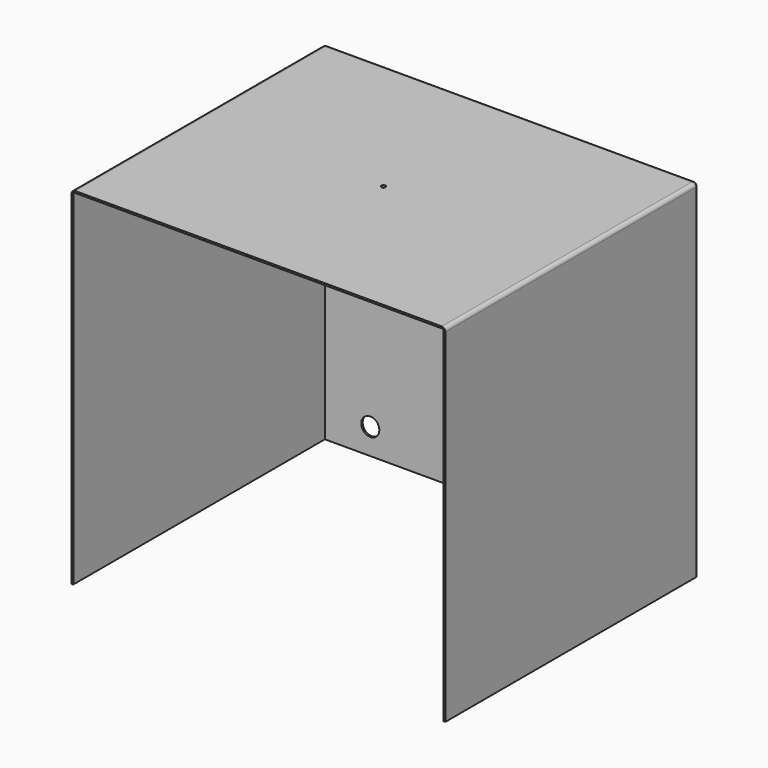
from build123d import *

# Parameters (mm, degrees)
F0_W     = 517
F0_H     = 437.351066
F1_DEPTH = 480
F2_T     = -2.5
F3_R     = 5
F5_R     = 15
F5_R_2   = 12.5
F6_DEPTH = 11.75
F7_R     = 3
F8_DEPTH = 12.5


with BuildPart() as f1:
    # F0 (on Top) → F1 (new body)
    with BuildSketch(Plane.XY):
        with Locations((154.318035, -9.831567)):
            Rectangle(F0_W, F0_H)
    extrude(amount=F1_DEPTH)

    # F2
    f2_openings = [f1.faces().sort_by_distance(p)[0] for p in [
        (154.318035, -228.5071, 240),
        (154.318035, -9.831567, 0),
    ]]
    offset(amount=F2_T, openings=f2_openings)

    # F3
    f3_edges = [f1.edges().sort_by_distance(p)[0] for p in [
        (412.818035, -9.831567, 480),
        (-104.181965, -9.831567, 480),
        (412.818035, 208.843966, 240),
        (154.318035, 208.843966, 480),
        (-104.181965, 208.843966, 240),
    ]]
    fillet(f3_edges, radius=F3_R)

    # F5 (on face) → F6 (cut)
    with BuildSketch(Plane(origin=(0, 208.843966, 0), x_dir=(-1, 0, 0), z_dir=(0, 1, 0))):
        with Locations((-364.1496, 30.58356)):
            Circle(F5_R)
        with Locations((38.893182, 35.777409)):
            Circle(F5_R_2)
    extrude(amount=-F6_DEPTH, mode=Mode.SUBTRACT)

    # F7 (on face) → F8 (cut)
    with BuildSketch(Plane.XY.offset(480)):
        with Locations((154.318035, -12.331567)):
            Circle(F7_R)
    extrude(amount=-F8_DEPTH, mode=Mode.SUBTRACT)


solid = f1.part
